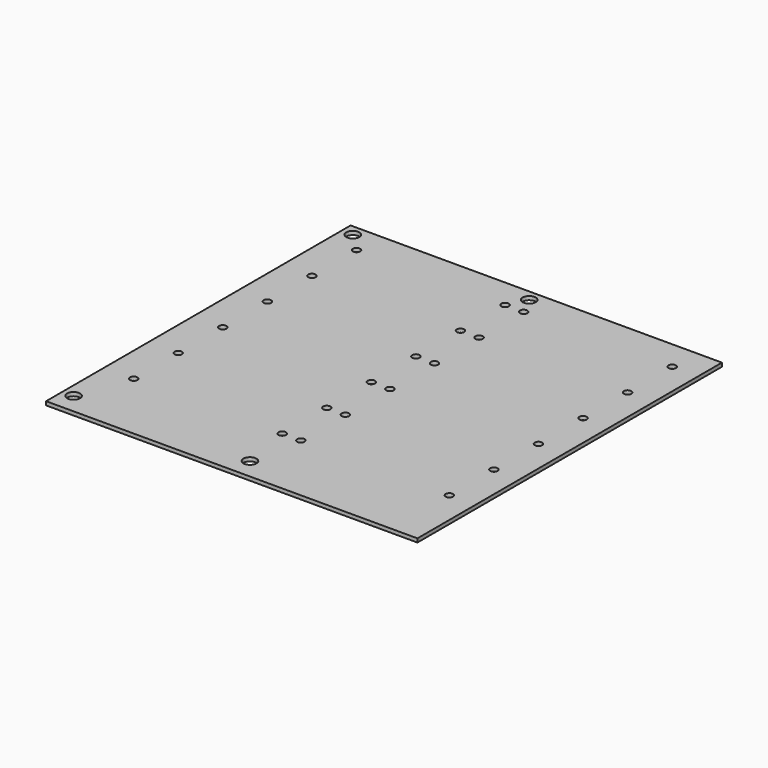
from build123d import *

# Parameters (mm, degrees)
CYLINDER003_R     = 3.5
CYLINDER003_DEPTH = 10
ARRAY020_X_COUNT  = 2
ARRAY020_X_PITCH  = 95
ARRAY021_Y_COUNT  = 2
ARRAY021_Y_PITCH  = 188
CYLINDER_R        = 2
CYLINDER_DEPTH    = 5
ARRAY016_X_COUNT  = 2
ARRAY016_X_PITCH  = 80
ARRAY016_Y_COUNT  = 2
ARRAY016_Y_PITCH  = 30
ARRAY018_Y_COUNT  = 3
ARRAY018_Y_PITCH  = 60
ARRAY019_X_COUNT  = 2
ARRAY019_X_PITCH  = 90
BOX_W             = 200
BOX_H             = 205
BOX_DEPTH         = 2


with BuildPart() as array021:
    # Cylinder003 → Cylinder003 (new body)
    with BuildSketch(Plane(origin=(8, 1, 0), x_dir=(1, 0, 0), z_dir=(0, 0, 1))):
        Circle(CYLINDER003_R)
    extrude(amount=CYLINDER003_DEPTH)

    # Array020 X: Array021 ×2


with BuildPart() as array021_1:
    add(array021.part)
    with Locations(*[(i * ARRAY020_X_PITCH, 0, 0) for i in range(1, ARRAY020_X_COUNT)]):
        add(array021.part)

    # Array021 Y: Array021 ×2


with BuildPart() as array021_2:
    add(array021_1.part)
    with Locations(*[(0, i * ARRAY021_Y_PITCH, 0) for i in range(1, ARRAY021_Y_COUNT)]):
        add(array021_1.part)


with BuildPart() as array021_3:
    # Array021 placement: moved
    add(array021_2.part.moved(Location((0, 0, -40))))


with BuildPart() as array019:
    # Cylinder → Cylinder (new body)
    with BuildSketch(Plane(origin=(18, 29, 0), x_dir=(1, 0, 0), z_dir=(0, 0, 1))):
        Circle(CYLINDER_R)
    extrude(amount=CYLINDER_DEPTH)

    # Array016 X: Array019 ×2


with BuildPart() as array019_1:
    add(array019.part)
    with Locations(*[(i * ARRAY016_X_PITCH, 0, 0) for i in range(1, ARRAY016_X_COUNT)]):
        add(array019.part)

    # Array016 Y: Array019 ×2


with BuildPart() as array019_2:
    add(array019_1.part)
    with Locations(*[(0, i * ARRAY016_Y_PITCH, 0) for i in range(1, ARRAY016_Y_COUNT)]):
        add(array019_1.part)

    # Array018 Y: Array019 ×3


with BuildPart() as array019_3:
    add(array019_2.part)
    with Locations(*[(0, i * ARRAY018_Y_PITCH, 0) for i in range(1, ARRAY018_Y_COUNT)]):
        add(array019_2.part)

    # Array019 X: Array019 ×2


with BuildPart() as array019_4:
    add(array019_3.part)
    with Locations(*[(i * ARRAY019_X_PITCH, 0, 0) for i in range(1, ARRAY019_X_COUNT)]):
        add(array019_3.part)


with BuildPart() as array019_5:
    # Array019 placement: moved
    add(array019_4.part.moved(Location((0, 0, -40))))


with BuildPart() as bottom_holes:
    # Box → Box (new body)
    with BuildSketch(Plane(origin=(2, -10, -38.5), x_dir=(1, 0, 0), z_dir=(0, 0, 1))):
        with Locations((100, 102.5)):
            Rectangle(BOX_W, BOX_H)
    extrude(amount=BOX_DEPTH)

    # Cut011: cut Array019
    add(array019_5.part, mode=Mode.SUBTRACT)

    # Cut012: cut Array021
    add(array021_3.part, mode=Mode.SUBTRACT)


solid = bottom_holes.part
